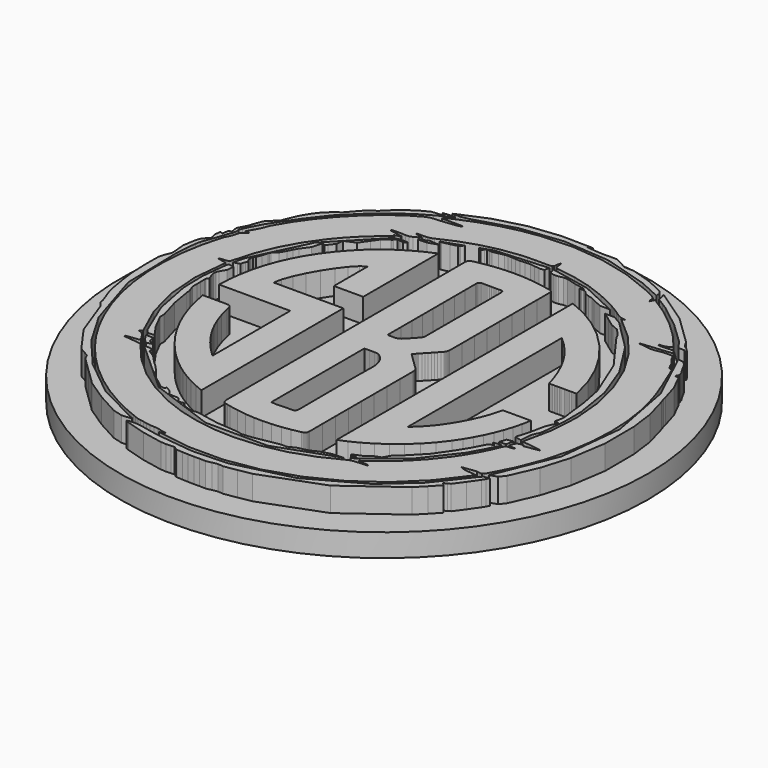
from build123d import *

# Parameters (mm, degrees)
F1_DEPTH = 6.35
F2_R     = 69.2543475659
F3_DEPTH = 5.9787


with BuildPart() as f1:
    # F0 (on Top) → F1 (new body)
    with BuildSketch(Plane.XY):
        Polygon((-53.894744, 22.908239), (-53.552094, 22.870532), (-53.702745, 22.720724), (-53.820196, 22.59796), (-53.920438, 22.503531), (-54.01946, 22.438724), (-54.511137, 22.177578), (-54.935004, 21.856725), (-55.241654, 21.440234), (-55.381676, 20.892172), (-55.539018, 20.122574), (-55.846118, 19.419855), (-56.213059, 18.74411), (-56.549927, 18.055435), (-56.558811, 18.035013), (-56.567988, 18.01469), (-56.576647, 17.994216), (-56.583978, 17.973339), (-57.93366, 12.75509), (-58.831826, 7.482319), (-59.26033, 2.149241), (-59.201027, -3.249927), (-58.642742, -8.709252), (-57.596428, -14.042956), (-56.061881, -19.254987), (-54.0389, -24.349291), (-51.927557, -28.577852), (-49.496927, -32.595965), (-46.750298, -36.402089), (-43.69096, -39.994683), (-40.114436, -43.566648), (-36.274813, -46.80741), (-32.171583, -49.710104), (-27.804238, -52.267862), (-26.956361, -52.705573), (-26.099857, -53.127266), (-25.236518, -53.535097), (-24.368136, -53.931223), (-23.491413, -54.307872), (-22.607228, -54.667956), (-21.723806, -55.029586), (-20.849373, -55.410875), (-20.009353, -55.707306), (-19.144427, -55.892246), (-18.271085, -56.038594), (-17.405819, -56.219251), (-16.292229, -56.395255), (-15.149927, -56.461127), (-14.007243, -56.572232), (-12.892512, -56.883938), (-12.830585, -56.900234), (-12.763886, -56.905008), (-12.695517, -56.906698), (-12.628578, -56.913744), (-12.367301, -56.964816), (-12.106249, -57.017054), (-11.845303, -57.069853), (-11.584347, -57.122603), (-11.587713, -57.15537), (-11.591076, -57.188135), (-11.594439, -57.220898), (-11.597801, -57.253658), (-11.928734, -57.347059), (-12.259666, -57.440462), (-12.590598, -57.533864), (-12.921531, -57.627265), (-3.92612, -58.999912), (4.953321, -58.997247), (13.71184, -57.601679), (22.344485, -54.795619), (30.484739, -50.726543), (37.749425, -45.57634), (44.157377, -39.359009), (49.727427, -32.088549), (48.575324, -31.855525), (47.412091, -31.775238), (46.272713, -31.608168), (45.192172, -31.114796), (46.13794, -30.983497), (47.055989, -30.856231), (47.955635, -30.732223), (48.846197, -30.610699), (48.887779, -30.611841), (48.930699, -30.622672), (48.974134, -30.637768), (49.017261, -30.651707), (49.765393, -30.809644), (50.276612, -30.760082), (50.673378, -30.454241), (51.078152, -29.843342), (54.054247, -24.024216), (56.375192, -17.995323), (58.020205, -11.747936), (58.968503, -5.273327), (59.22873, 0.416203), (58.961757, 6.052709), (58.137997, 11.625972), (56.727864, 17.125778), (55.668493, 20.197354), (54.482909, 23.229321), (53.242745, 26.244146), (52.019635, 29.264298), (52.002122, 29.309409), (51.981609, 29.356362), (51.958365, 29.394177), (51.932659, 29.411874), (51.064657, 29.805705), (50.585712, 30.514007), (50.246251, 31.335755), (49.7967, 32.069926), (49.438036, 32.464181), (49.099211, 32.881538), (48.802946, 33.322463), (48.571962, 33.787424), (48.390563, 34.123204), (48.168361, 34.334562), (47.902495, 34.442754), (47.590101, 34.469032), (46.876129, 34.461637), (46.15998, 34.448917), (45.452195, 34.397092), (44.763318, 34.272376), (43.812223, 34.094331), (42.872197, 34.039214), (41.935554, 34.091483), (40.994606, 34.235596), (40.624786, 34.298358), (40.252368, 34.347834), (39.878839, 34.391625), (39.505685, 34.437329), (39.512059, 34.477123), (39.518433, 34.516916), (39.524808, 34.556708), (39.531182, 34.5965), (41.526109, 34.793798), (43.531858, 34.992166), (45.559249, 35.192673), (47.619104, 35.396391), (47.283627, 35.905891), (46.911543, 36.227682), (46.488492, 36.38335), (46.000115, 36.394477), (45.425289, 36.341368), (44.84934, 36.2988), (44.272724, 36.265207), (43.695903, 36.239024), (43.482152, 36.244422), (43.267603, 36.269944), (43.052714, 36.304073), (42.837943, 36.335288), (42.841288, 36.400349), (42.84463, 36.46541), (42.847972, 36.530471), (42.851316, 36.595532), (43.26487, 36.628486), (43.68061, 36.655277), (44.088497, 36.704205), (44.478489, 36.803571), (44.83471, 36.969806), (45.172618, 37.187491), (45.502435, 37.427671), (45.83438, 37.661392), (42.344239, 41.715213), (38.50644, 45.35271), (34.347213, 48.614267), (29.892784, 51.540269), (29.752463, 51.253579), (29.616084, 50.974943), (29.469648, 50.675762), (29.29916, 50.327435), (29.21699, 50.599203), (29.147285, 50.806769), (29.103799, 50.968562), (29.100287, 51.103013), (29.097006, 51.603926), (28.919538, 51.979903), (28.602696, 52.266155), (28.181294, 52.497892), (27.565361, 52.804629), (26.958015, 53.129714), (26.350781, 53.45507), (25.735183, 53.762621), (18.04135, 56.778978), (10.161091, 58.67475), (2.092412, 59.437874), (-6.166684, 59.056286), (-10.964254, 58.309303), (-15.656692, 57.187953), (-20.247108, 55.702962), (-24.738616, 53.865052), (-25.267541, 53.614345), (-25.790317, 53.350051), (-26.310491, 53.080008), (-26.831613, 52.812057), (-26.817852, 52.744918), (-26.80409, 52.677778), (-26.790328, 52.610639), (-26.776566, 52.543499), (-25.438451, 52.543499), (-24.100338, 52.543499), (-22.762224, 52.543499), (-21.42411, 52.543499), (-21.418098, 52.486268), (-21.412086, 52.429036), (-21.406074, 52.371805), (-21.400062, 52.314573), (-21.62026, 52.230182), (-21.839894, 52.141978), (-22.061151, 52.064752), (-22.286215, 52.013292), (-23.097493, 51.900012), (-23.910133, 51.795955), (-24.723333, 51.695605), (-25.53629, 51.593444), (-26.701619, 51.499855), (-27.882364, 51.435191), (-29.017873, 51.283075), (-30.047497, 50.927126), (-33.006111, 49.211239), (-35.802971, 47.255592), (-38.458985, 45.102437), (-40.995064, 42.794026), (-44.239797, 39.457199), (-47.202585, 35.902312), (-49.871121, 32.121971), (-52.2331, 28.108778), (-52.474017, 27.581288), (-52.675767, 27.033016), (-52.874486, 26.482747), (-53.106312, 25.949271), (-53.49691, 25.205622), (-53.908284, 24.47105), (-54.329839, 23.738886), (-54.75098, 23.002461), (-54.476594, 22.972266), (-54.197047, 22.941505), align=None)
        Polygon((27.2512, -41.852579), (27.00565, -42.033669), (27.743861, -42.121858), (28.429116, -42.203717), (29.079067, -42.281358), (29.711364, -42.35689), (29.712691, -42.416879), (29.714018, -42.476867), (29.715345, -42.536853), (29.716672, -42.596836), (28.88839, -42.653866), (28.059968, -42.709619), (27.232278, -42.772253), (26.406187, -42.849926), (26.037522, -42.895701), (25.667588, -42.963613), (25.311078, -43.065674), (24.982685, -43.213893), (19.176028, -46.062258), (13.158344, -48.135491), (6.927866, -49.41758), (0.482827, -49.89251), (-4.796705, -49.676128), (-9.971315, -48.916145), (-15.037941, -47.607426), (-19.993525, -45.744831), (-25.847605, -42.729337), (-31.162645, -39.040641), (-35.944973, -34.683216), (-40.20092, -29.661531), (-40.36031, -29.524007), (-40.578779, -29.426093), (-40.82416, -29.360958), (-41.064287, -29.321769), (-42.062824, -29.203048), (-43.062604, -29.094213), (-44.062984, -28.990158), (-45.063322, -28.885772), (-45.06214, -28.811276), (-45.060958, -28.736782), (-45.059777, -28.662289), (-45.058595, -28.587799), (-44.167174, -28.473369), (-43.257312, -28.356571), (-42.310564, -28.235037), (-41.308488, -28.106399), (-41.939549, -27.178781), (-42.500453, -26.244784), (-43.230521, -25.475867), (-44.369073, -25.04349), (-44.117761, -24.922161), (-43.910628, -24.82216), (-43.724455, -24.732278), (-43.536022, -24.641305), (-47.204338, -16.509001), (-49.375405, -8.116536), (-50.028507, 0.543691), (-49.142923, 9.479286), (-49.740736, 9.612571), (-50.322394, 9.742254), (-50.89328, 9.869535), (-51.458782, 9.995616), (-51.455933, 10.053534), (-51.453083, 10.111454), (-51.450234, 10.169375), (-51.447385, 10.227296), (-51.021193, 10.266569), (-50.595058, 10.307081), (-50.168726, 10.343213), (-49.741944, 10.369347), (-49.360906, 10.431897), (-49.080568, 10.589504), (-48.883551, 10.856249), (-48.752476, 11.246214), (-47.256302, 16.484693), (-45.214036, 21.464582), (-42.628211, 26.185846), (-39.501358, 30.648448), (-37.370207, 33.190314), (-35.085473, 35.575523), (-32.648234, 37.804936), (-30.059567, 39.879415), (-29.953819, 39.960952), (-29.844605, 40.04854), (-29.726039, 40.145003), (-29.592239, 40.253168), (-29.72023, 40.351184), (-29.844419, 40.446286), (-29.971309, 40.543455), (-30.107402, 40.647671), (-29.66469, 40.744212), (-29.230733, 40.838844), (-28.802613, 40.932204), (-28.377412, 41.024927), (-28.385622, 41.073917), (-28.393834, 41.122907), (-28.402046, 41.171898), (-28.410257, 41.220889), (-29.23377, 41.36276), (-30.057282, 41.504632), (-30.880795, 41.646504), (-31.704308, 41.788375), (-31.701533, 41.878084), (-31.698759, 41.967792), (-31.695985, 42.0575), (-31.69321, 42.147208), (-30.801801, 42.159094), (-29.909831, 42.176968), (-29.019801, 42.174152), (-28.134215, 42.123972), (-27.212466, 42.168649), (-26.377849, 42.442721), (-25.575417, 42.879542), (-24.750225, 43.412471), (-25.279427, 43.524024), (-25.767695, 43.626949), (-26.228675, 43.724122), (-26.676011, 43.818417), (-26.669076, 43.897305), (-26.662143, 43.976192), (-26.65521, 44.055079), (-26.648278, 44.133966), (-26.087969, 44.125927), (-25.527256, 44.113998), (-24.968039, 44.116459), (-24.412221, 44.151594), (-23.912268, 44.211099), (-23.411263, 44.297058), (-22.924996, 44.424824), (-22.469257, 44.609747), (-18.094004, 46.575202), (-13.598431, 48.120862), (-8.978783, 49.225303), (-4.231307, 49.867098), (-2.351435, 49.979786), (-0.465641, 50.022926), (1.422662, 50.025733), (3.310066, 50.017425), (3.767894, 50.043651), (4.097828, 50.16109), (4.29529, 50.424461), (4.355707, 50.888485), (4.376168, 51.214146), (4.446648, 51.541813), (4.564673, 51.872625), (4.727772, 52.207721), (4.792361, 51.831979), (4.859096, 51.456411), (4.918399, 51.080242), (4.96069, 50.702699), (5.030724, 50.341252), (5.185447, 50.086549), (5.443388, 49.926178), (5.823078, 49.847728), (10.679519, 49.128423), (15.379953, 47.906545), (19.931014, 46.20619), (24.339338, 44.051457), (24.743284, 43.818445), (25.141426, 43.574784), (25.540139, 43.332301), (25.945801, 43.102824), (27.035716, 42.411504), (28.107481, 41.672918), (29.258058, 41.082585), (30.584411, 40.836027), (30.401637, 40.798394), (30.200121, 40.756904), (29.961122, 40.707695), (29.665896, 40.646909), (35.586093, 35.447769), (40.52766, 29.590565), (44.481023, 23.060562), (47.43661, 15.843024), (49.27682, 8.30704), (49.943364, 0.749937), (49.474362, -6.823395), (47.907937, -14.408067), (49.190972, -14.590432), (50.484455, -14.774283), (51.784902, -14.959125), (53.08883, -15.144463), (53.088266, -15.186543), (53.0877, -15.228623), (53.087131, -15.270704), (53.086561, -15.312787), (52.096496, -15.482123), (51.101336, -15.652332), (50.095993, -15.824284), (49.075375, -15.998846), (49.08686, -15.926091), (49.102766, -15.825361), (49.121619, -15.70598), (49.141945, -15.577275), (48.133566, -15.62736), (47.503419, -15.893381), (47.109267, -16.497726), (46.808871, -17.562782), (47.260903, -17.612535), (47.711791, -17.662161), (48.161919, -17.711702), (48.611667, -17.761199), (48.615249, -17.812088), (48.618831, -17.86298), (48.622413, -17.913872), (48.625995, -17.964761), (48.317951, -18.023875), (48.009416, -18.088914), (47.702405, -18.135663), (47.398934, -18.139907), (46.900688, -18.174059), (46.537381, -18.360776), (46.269401, -18.68179), (46.057132, -19.118837), (44.897135, -21.742328), (43.57913, -24.2788), (42.110618, -26.732794), (40.499095, -29.108851), (37.739898, -32.612989), (34.706408, -35.832701), (31.401055, -38.771979), (27.826271, -41.434814), (27.648334, -41.559714), (27.461036, -41.696782), align=None, mode=Mode.SUBTRACT)
    extrude(amount=F1_DEPTH)



with BuildPart() as f1b:
    # F0 (on Top) → F1, piece 2 (new body)
    with BuildSketch(Plane.XY):
        Polygon((-23.557972, -56.667024), (-20.983624, -56.456495), (-21.027435, -56.334423), (-21.068511, -56.269605), (-21.599318, -56.044114), (-22.134102, -55.828116), (-32.89666, -50.28208), (-42.303792, -42.668376), (-49.107039, -34.656127), (-54.409291, -25.571521), (-59.353599, -9.722321), (-59.759051, 6.873817), (-59.53478, 9.566515), (-59.278542, 12.254478), (-58.981128, 13.524759), (-58.554597, 14.772868), (-58.100843, 15.961257), (-57.638936, 17.147156), (-57.161549, 18.565277), (-56.695764, 19.987615), (-56.323233, 20.80818), (-56.188742, 21.543502), (-56.264343, 22.578405), (-55.892638, 23.502227), (-54.861049, 25.614464), (-53.761027, 27.682268), (-51.581304, 31.027557), (-49.338339, 34.333481), (-45.19724, 39.663199), (-40.426986, 44.431183), (-37.750052, 46.697301), (-34.962966, 48.827415), (-32.131191, 50.783843), (-29.14249, 52.504093), (-27.577881, 53.338479), (-26.025989, 54.198413), (-25.604141, 54.415175), (-25.178651, 54.625221), (-25.220773, 54.717845), (-25.262896, 54.81047), (-26.70897, 54.666379), (-28.316584, 54.506193), (-27.740603, 54.181419), (-27.310778, 53.939055), (-27.409249, 53.820094), (-27.474608, 53.767608), (-27.784656, 53.726993), (-28.092078, 53.724786), (-30.440205, 53.527545), (-32.546034, 52.430053), (-36.037655, 50.095797), (-39.030701, 47.149577), (-39.115339, 47.052628), (-39.218443, 46.971677), (-40.328263, 46.249349), (-41.353457, 45.444293), (-42.965552, 43.664404), (-44.531609, 41.8385), (-44.74819, 41.6963), (-44.984405, 41.566727), (-46.090969, 40.713213), (-47.140187, 39.80169), (-48.202085, 38.66073), (-49.116683, 37.411444), (-50.438933, 35.191453), (-51.447132, 32.859573), (-52.05853, 31.354426), (-53.092196, 30.284025), (-54.660096, 28.675897), (-55.429453, 26.592064), (-55.86782, 25.264497), (-56.520848, 24.037953), (-57.056487, 23.03322), (-57.006138, 21.926243), (-56.904983, 21.50058), (-56.830449, 21.003271), (-57.206795, 21.031749), (-57.532473, 21.056393), (-57.701971, 20.122253), (-57.868653, 19.203634), (-58.239806, 19.404503), (-58.607815, 19.60367), (-58.760095, 17.98817), (-58.4368, 16.478268), (-58.470571, 16.223824), (-58.64595, 15.972918), (-59.790363, 14.842256), (-60.302731, 13.319484), (-60.818445, 10.189846), (-60.529467, 7.026065), (-60.483765, 6.4425), (-60.602903, 5.852072), (-61.191715, 4.436885), (-61.575597, 3.024849), (-61.620538, -1.335632), (-61.439589, -5.690187), (-60.984896, -9.386406), (-60.363051, -13.067747), (-60.067735, -14.45397), (-59.668727, -15.815864), (-59.038981, -17.495635), (-58.449988, -19.18468), (-58.177272, -20.359127), (-57.403924, -21.284483), (-57.194328, -21.533808), (-57.055155, -21.87764), (-55.296834, -26.668185), (-53.532068, -31.456328), (-53.273701, -31.958692), (-52.94849, -32.430537), (-51.073238, -35.061154), (-49.192199, -37.687659), (-48.807211, -38.2953), (-48.351667, -38.796354), (-46.978535, -39.594287), (-45.732757, -40.251703), (-45.369672, -41.100346), (-44.984701, -41.732657), (-41.536929, -45.089285), (-38.068296, -48.424853), (-37.675974, -48.850171), (-37.261583, -49.242976), (-31.835895, -52.859375), (-26.105752, -55.987728), align=None)
    extrude(amount=F1_DEPTH)


with BuildPart() as f1c:
    # F0 (on Top) → F1, piece 3 (new body)
    with BuildSketch(Plane.XY):
        Polygon((-20.862949, -57.709294), (-21.322122, -57.865137), (-20.819133, -58.114152), (-20.451415, -58.27186), (-15.225602, -59.814886), (-9.883311, -60.874621), (-8.522522, -60.943843), (-7.152539, -60.909702), (-6.267753, -60.823076), (-5.555672, -61.365519), (-5.362294, -61.467547), (-5.075319, -61.504595), (-3.569156, -61.614722), (-2.061716, -61.694231), (-0.55084, -61.718491), (0.960288, -61.699148), (2.596548, -61.75692), (4.006817, -61.461807), (5.438796, -61.192681), (6.755383, -61.338057), (10.22207, -60.792742), (13.667542, -60.157757), (29.337882, -54.284954), (42.835382, -44.388625), (45.123411, -42.053715), (47.36026, -39.665417), (46.93133, -39.265031), (46.611583, -38.96656), (47.492808, -38.629217), (48.171198, -38.19841), (50.088571, -35.593201), (51.939345, -32.937641), (52.41702, -32.142401), (52.842936, -31.35027), (51.315648, -31.619295), (50.322907, -32.767716), (43.686349, -41.215457), (35.653059, -48.326773), (21.960413, -55.943711), (6.732182, -59.684009), (-2.491179, -60.017724), (-11.658309, -58.935233), (-14.184362, -58.484278), (-16.690356, -57.960276), (-18.618491, -57.613667), (-20.561451, -57.631194), align=None)
    extrude(amount=F1_DEPTH)


with BuildPart() as f1d:
    # F0 (on Top) → F1, piece 4 (new body)
    with BuildSketch(Plane.XY):
        Polygon((-33.736447, 8.796554), (-36.029206, 8.796554), (-35.599738, 10.903615), (-34.67961, 13.426045), (-33.385904, 16.1695), (-31.835698, 18.939641), (-30.146071, 21.542125), (-28.434104, 23.782611), (-26.816876, 25.466758), (-25.411465, 26.400225), (-25.411465, 25.004505), (-25.411465, 23.612775), (-25.411465, 22.224478), (-25.411465, 20.839057), (-25.411465, 19.455954), (-25.411465, 18.074612), (-25.411465, 16.694474), (-25.411465, 15.314982), (-24.429774, 15.314982), (-23.458259, 15.314982), (-22.494924, 15.314982), (-21.537775, 15.314982), (-20.584816, 15.314982), (-19.634051, 15.314982), (-18.683485, 15.314982), (-17.731124, 15.314982), (-17.731124, 18.387662), (-17.731124, 21.456793), (-17.731124, 24.524913), (-17.731124, 27.594557), (-17.731124, 30.668265), (-17.731124, 33.748573), (-17.731124, 36.838018), (-17.731124, 39.939138), (-20.616204, 38.636574), (-23.350906, 37.162043), (-25.937167, 35.515679), (-28.376922, 33.697616), (-30.672109, 31.707987), (-32.824662, 29.546926), (-34.83652, 27.214567), (-36.709618, 24.711041), (-38.434681, 22.02913), (-39.926542, 19.271903), (-41.189096, 16.438769), (-42.226235, 13.529137), (-43.041854, 10.542417), (-43.639844, 7.478019), (-44.024101, 4.335351), (-44.198516, 1.113824), (-41.836362, 1.113824), (-39.485592, 1.113824), (-37.144407, 1.113824), (-34.811005, 1.113824), (-32.483585, 1.113824), (-30.160348, 1.113824), (-27.839492, 1.113824), (-25.519216, 1.113824), (-25.519216, -2.072995), (-25.519216, -5.25166), (-25.519216, -8.425142), (-25.519216, -11.596415), (-25.519216, -14.768451), (-25.519216, -17.944225), (-25.519216, -21.126709), (-25.519216, -24.318877), (-25.612239, -24.244925), (-25.696912, -24.178771), (-25.774129, -24.118992), (-25.844786, -24.064161), (-25.909775, -24.012854), (-25.96999, -23.963646), (-26.026327, -23.915112), (-26.07968, -23.865828), (-27.888828, -22.017165), (-29.550104, -20.083978), (-31.056776, -18.062274), (-32.40211, -15.948063), (-33.579374, -13.737351), (-34.581837, -11.426147), (-35.402766, -9.010461), (-36.035428, -6.486298), (-36.16723, -5.878229), (-36.292764, -5.421886), (-36.438293, -5.095495), (-36.630077, -4.87728), (-36.894378, -4.745463), (-37.257456, -4.67827), (-37.745573, -4.653923), (-38.38499, -4.650646), (-39.060005, -4.650646), (-39.735831, -4.650646), (-40.41328, -4.650646), (-41.093165, -4.650646), (-41.776296, -4.650646), (-42.463485, -4.650646), (-43.155543, -4.650646), (-43.853284, -4.650646), (-43.210888, -7.881584), (-42.362655, -11.002535), (-41.307109, -14.014157), (-40.042773, -16.91711), (-38.56817, -19.71205), (-36.881823, -22.399636), (-34.982256, -24.980526), (-32.867993, -27.455377), (-31.249194, -29.125236), (-29.555003, -30.686767), (-27.784107, -32.139477), (-25.935194, -33.482873), (-24.006949, -34.716458), (-21.998061, -35.83974), (-19.907215, -36.852224), (-17.733099, -37.753415), (-17.733099, -31.915893), (-17.733099, -26.089595), (-17.733099, -20.27159), (-17.733099, -14.45895), (-17.733099, -8.648745), (-17.733099, -2.838045), (-17.733099, 2.976078), (-17.733099, 8.796554), (-20.02275, 8.796554), (-22.309253, 8.796554), (-24.593804, 8.796554), (-26.877601, 8.796554), (-29.161842, 8.796554), (-31.447725, 8.796554), align=None)
    extrude(amount=F1_DEPTH)


with BuildPart() as f1e:
    # F0 (on Top) → F1, piece 5 (new body)
    with BuildSketch(Plane.XY):
        Polygon((6.464847, 1.12141), (5.901451, 1.677647), (6.038698, 1.831583), (6.168609, 1.978002), (6.292403, 2.117817), (6.4113, 2.251941), (6.52652, 2.381288), (6.639283, 2.506773), (6.750808, 2.629307), (6.862315, 2.749806), (7.310925, 3.227843), (7.761012, 3.704562), (8.211497, 4.180918), (8.661299, 4.657866), (9.109339, 5.136363), (9.554537, 5.617365), (9.995814, 6.101826), (10.432088, 6.590704), (10.533546, 6.717648), (10.627156, 6.858732), (10.711182, 7.010806), (10.783891, 7.170725), (10.843548, 7.335341), (10.888417, 7.501505), (10.916764, 7.666072), (10.926856, 7.825894), (10.935252, 11.916081), (10.94091, 16.006275), (10.944662, 20.096473), (10.947342, 24.186674), (10.949785, 28.276877), (10.952822, 32.367079), (10.957288, 36.457279), (10.964015, 40.547475), (10.954938, 40.765576), (10.925132, 40.950501), (10.872148, 41.105679), (10.793539, 41.234541), (10.686856, 41.340516), (10.549648, 41.427032), (10.379469, 41.49752), (10.173869, 41.555408), (7.665464, 42.073734), (5.157192, 42.447949), (2.648761, 42.677514), (0.13988, 42.761891), (-2.36974, 42.700541), (-4.880392, 42.492925), (-7.392366, 42.138506), (-9.905953, 41.636743), (-10.208514, 41.555208), (-10.459332, 41.45746), (-10.661904, 41.337427), (-10.819728, 41.189037), (-10.936301, 41.006218), (-11.01512, 40.7829), (-11.059684, 40.513011), (-11.073488, 40.190479), (-11.063852, 30.565171), (-11.057078, 20.939861), (-11.052678, 11.314547), (-11.050164, 1.689232), (-11.049045, -7.936084), (-11.048835, -17.561402), (-11.049045, -27.186721), (-11.049185, -36.81204), (-11.044265, -37.570705), (-11.011975, -38.143005), (-10.926008, -38.563104), (-10.760056, -38.865163), (-10.487813, -39.083343), (-10.082972, -39.251806), (-9.519224, -39.404714), (-8.770264, -39.576227), (-6.431995, -40.034659), (-4.095803, -40.353575), (-1.761346, -40.534727), (0.571719, -40.579867), (2.903733, -40.490748), (5.23504, -40.269122), (7.565981, -39.916742), (9.896899, -39.435359), (10.171489, -39.360036), (10.40068, -39.269784), (10.587136, -39.158926), (10.733526, -39.021789), (10.842514, -38.852695), (10.916768, -38.645969), (10.958954, -38.395937), (10.971738, -38.096922), (10.960281, -33.862256), (10.952446, -29.627579), (10.947882, -25.392892), (10.946238, -21.1582), (10.947162, -16.923505), (10.950302, -12.688808), (10.955308, -8.454114), (10.961828, -4.219425), (10.953871, -3.985278), (10.928234, -3.766223), (10.883504, -3.560369), (10.818268, -3.365826), (10.731113, -3.180703), (10.620626, -3.003108), (10.485393, -2.831151), (10.324001, -2.662941), (9.772742, -2.133582), (9.223615, -1.600575), (8.675329, -1.063857), (8.126598, -0.523364), (7.576132, 0.020969), (7.022645, 0.569206), align=None)
        Polygon((-3.236573, -6.26905), (-3.236573, -2.430164), (-2.780744, -2.429155), (-2.331051, -2.426884), (-1.886653, -2.424488), (-1.446713, -2.423106), (-1.010393, -2.423873), (-0.576855, -2.427927), (-0.14526, -2.436406), (0.285229, -2.450446), (0.378031, -2.464775), (0.47079, -2.497849), (0.563196, -2.545908), (0.654939, -2.605196), (0.745708, -2.671953), (0.835193, -2.74242), (0.923082, -2.812839), (1.009067, -2.879452), (1.627245, -3.408111), (2.127433, -3.977333), (2.519962, -4.587617), (2.815162, -5.239463), (3.023363, -5.933368), (3.154894, -6.669831), (3.220085, -7.449352), (3.229267, -8.272428), (3.185505, -11.203349), (3.1589, -14.134596), (3.146455, -17.066098), (3.145175, -19.997784), (3.152062, -22.929586), (3.164121, -25.861431), (3.178356, -28.79325), (3.19177, -31.724973), (3.181132, -32.039702), (3.142692, -32.303425), (3.070853, -32.518464), (2.960016, -32.687144), (2.804584, -32.811789), (2.598959, -32.894722), (2.337543, -32.938268), (2.014737, -32.94475), (1.528425, -32.936564), (1.041757, -32.940764), (0.554803, -32.954204), (0.067633, -32.973742), (-0.419684, -32.996233), (-0.907078, -33.018533), (-1.394479, -33.037497), (-1.881816, -33.049983), (-2.045788, -33.04848), (-2.210373, -33.03952), (-2.376032, -33.024701), (-2.543227, -33.005623), (-2.712417, -32.983885), (-2.884064, -32.961087), (-3.058629, -32.938829), (-3.236573, -32.918711), (-3.236573, -29.116605), (-3.236573, -25.317326), (-3.236573, -21.518179), (-3.236573, -17.716472), (-3.236573, -13.909511), (-3.236573, -10.094601), align=None, mode=Mode.SUBTRACT)
        Polygon((-2.986232, 5.218105), (-3.284126, 5.220192), (-3.284126, 5.377997), (-3.284126, 5.523727), (-3.284127, 5.659108), (-3.284128, 5.785865), (-3.284128, 5.905722), (-3.284128, 6.020405), (-3.284127, 6.131637), (-3.284126, 6.241145), (-3.283763, 9.727103), (-3.283065, 13.213061), (-3.282536, 16.699018), (-3.282681, 20.184974), (-3.284006, 23.670927), (-3.287014, 27.156875), (-3.292212, 30.642818), (-3.300103, 34.128754), (-3.291352, 34.402622), (-3.259812, 34.635741), (-3.199936, 34.82899), (-3.106175, 34.983245), (-2.972982, 35.099385), (-2.794808, 35.178286), (-2.566105, 35.220828), (-2.281326, 35.227886), (-1.693867, 35.211356), (-1.106198, 35.200096), (-0.518371, 35.193424), (0.069565, 35.190656), (0.657561, 35.191111), (1.245566, 35.194105), (1.833531, 35.198956), (2.421406, 35.20498), (2.619293, 35.196665), (2.782696, 35.16595), (2.914099, 35.111215), (3.015982, 35.030843), (3.090828, 34.923213), (3.141119, 34.786707), (3.169337, 34.619706), (3.177964, 34.420589), (3.17408, 31.312105), (3.171836, 28.203618), (3.170611, 25.09513), (3.169787, 21.986641), (3.168745, 18.878154), (3.166866, 15.769669), (3.163531, 12.661187), (3.158122, 9.55271), (3.150631, 9.432519), (3.129509, 9.308728), (3.096029, 9.183723), (3.051463, 9.059887), (2.997085, 8.939604), (2.934168, 8.825259), (2.863985, 8.719235), (2.78781, 8.623915), (2.456205, 8.250661), (2.122094, 7.87946), (1.785248, 7.510648), (1.445438, 7.144563), (1.102432, 6.78154), (0.756003, 6.421915), (0.40592, 6.066025), (0.051954, 5.714205), (-0.054675, 5.620959), (-0.174629, 5.536234), (-0.305191, 5.460652), (-0.443646, 5.394833), (-0.587278, 5.339397), (-0.733369, 5.294965), (-0.879204, 5.262158), (-1.022066, 5.241597), (-1.294077, 5.219631), (-1.567903, 5.207327), (-1.844174, 5.20261), (-2.123515, 5.203405), (-2.406553, 5.207636), (-2.693917, 5.213228), align=None, mode=Mode.SUBTRACT)
    extrude(amount=F1_DEPTH)


with BuildPart() as f1f:
    # F0 (on Top) → F1, piece 6 (new body)
    with BuildSketch(Plane.XY):
        Polygon((21.864423, 37.964377), (17.664683, 39.813198), (17.664683, 30.126865), (17.664683, 20.441933), (17.664683, 10.75787), (17.664683, 1.074144), (17.664683, -8.609775), (17.664683, -18.29442), (17.664683, -27.980322), (17.664683, -37.668013), (19.909589, -36.73233), (22.291281, -35.528253), (24.753906, -34.065067), (27.241616, -32.352056), (29.698558, -30.398505), (32.068883, -28.213698), (34.296739, -25.806919), (36.326277, -23.187454), (37.627762, -21.230718), (38.815132, -19.227327), (39.886515, -17.175685), (40.840041, -15.074195), (41.673836, -12.921261), (42.386029, -10.715286), (42.974749, -8.454673), (43.438123, -6.137825), (42.495556, -6.137825), (41.561291, -6.137825), (40.633588, -6.137825), (39.710706, -6.137825), (38.790904, -6.137825), (37.872443, -6.137825), (36.953582, -6.137825), (36.032581, -6.137825), (35.729823, -7.434863), (35.369418, -8.706535), (34.954474, -9.954063), (34.4881, -11.178674), (33.973404, -12.381591), (33.413494, -13.564039), (32.811479, -14.727243), (32.170468, -15.872426), (31.494304, -16.995532), (30.780529, -18.092552), (30.024495, -19.161877), (29.221552, -20.2019), (28.367051, -21.211013), (27.456345, -22.187609), (26.484783, -23.130079), (25.447717, -24.036816), (25.447717, -17.694016), (25.447717, -11.370324), (25.447717, -5.060423), (25.447717, 1.241006), (25.447717, 7.539283), (25.447717, 13.839726), (25.447717, 20.147654), (25.447717, 26.468385), (27.426691, 24.650066), (29.190219, 22.719249), (30.7522, 20.681335), (32.126534, 18.541723), (33.327118, 16.305813), (34.367854, 13.979005), (35.262639, 11.566699), (36.025373, 9.074294), (36.48929, 9.074295), (36.948152, 9.074295), (37.402681, 9.074296), (37.8536, 9.074297), (38.30163, 9.074298), (38.747494, 9.074299), (39.191914, 9.0743), (39.635611, 9.0743), (40.083895, 9.0743), (40.532452, 9.074299), (40.981557, 9.074298), (41.431484, 9.074297), (41.882506, 9.074296), (42.334897, 9.074295), (42.788932, 9.074295), (43.244883, 9.074294), (41.79085, 14.586447), (39.626882, 19.714017), (36.858878, 24.410755), (33.592733, 28.630411), (29.934344, 32.326733), (25.989609, 35.453472), align=None)
    extrude(amount=F1_DEPTH)


with BuildPart() as f1g:
    # F0 (on Top) → F1, piece 7 (new body)
    with BuildSketch(Plane.XY):
        Polygon((26.058862, 54.534486), (28.863066, 53.226419), (28.751201, 54.390916), (27.941576, 55.309874), (23.764332, 57.246764), (19.391499, 58.642214), (18.299599, 58.963172), (17.226407, 58.972074), (15.725739, 59.033058), (14.549978, 59.770493), (12.571856, 60.799212), (10.36344, 60.835997), (9.185086, 60.782508), (7.995893, 60.842462), (6.62573, 60.947066), (5.256943, 61.076644), (4.777556, 61.123488), (4.298413, 61.173033), (4.304643, 61.262942), (4.310874, 61.35285), (4.901981, 61.483928), (5.493084, 61.615005), (-2.753773, 61.75692), (-10.951599, 60.859746), (-18.928055, 58.776703), (-26.522791, 55.524859), (-24.377425, 55.508618), (-22.354109, 55.869764), (-11.766927, 59.015191), (-0.808241, 60.280861), (11.472391, 59.332283), (23.269296, 55.783727), align=None)
    extrude(amount=F1_DEPTH)


with BuildPart() as f1h:
    # F0 (on Top) → F1, piece 8 (new body)
    with BuildSketch(Plane.XY):
        Polygon((48.817511, 37.536433), (49.061568, 37.163471), (49.231695, 37.30165), (49.40183, 37.439831), (48.918694, 38.134728), (48.360378, 38.664281), (47.363953, 39.379959), (46.777252, 40.425879), (46.587384, 40.769105), (46.330021, 41.080086), (38.871331, 48.294987), (30.298204, 54.142139), (30.020717, 54.267088), (29.773505, 54.358405), (30.036552, 53.627555), (30.156859, 52.937731), (30.259491, 52.386728), (30.665048, 52.054623), (32.248506, 51.072472), (33.816147, 50.064948), (39.860128, 45.334948), (45.411267, 40.034648), (45.629169, 39.76196), (45.783191, 39.447584), (46.831576, 37.959504), (48.567251, 37.918878), align=None)
    extrude(amount=F1_DEPTH)


with BuildPart() as f1i:
    # F0 (on Top) → F1, piece 9 (new body)
    with BuildSketch(Plane.XY):
        Polygon((58.242545, -14.621251), (51.842416, -30.384886), (53.737937, -29.729755), (54.879795, -28.299128), (57.964982, -21.265941), (60.166083, -13.917267), (61.620538, -4.533526), (61.574595, 4.962065), (60.777347, 11.163651), (59.093979, 17.191664), (58.706575, 18.194659), (58.470224, 19.221446), (57.157235, 23.617306), (55.097218, 27.74092), (54.645465, 27.74092), (54.046225, 27.74092), (54.581218, 28.711488), (54.243839, 29.651277), (53.30229, 31.212763), (52.465422, 32.823741), (51.45793, 33.785429), (50.052591, 33.960469), (56.697076, 19.79403), (60.046772, 2.185141), align=None)
    extrude(amount=F1_DEPTH)


with BuildPart() as f1j:
    # F0 (on Top) → F1, piece 10 (new body)
    with BuildSketch(Plane.XY):
        Polygon((22.603122, 42.519902), (25.226658, 42.507244), (15.633627, 46.978044), (5.250349, 49.09015), (5.486447, 47.674723), (6.722479, 47.301649), (7.29003, 47.326135), (7.862156, 47.40683), (9.003466, 47.628736), (10.031465, 47.59731), (12.55082, 46.902054), (15.095712, 46.404631), (15.349844, 46.296388), (15.681737, 46.124263), (15.095492, 45.967349), (14.62242, 45.840726), (15.175282, 45.788894), (15.701557, 45.812242), (16.064811, 45.762926), (16.304472, 45.621477), (17.035412, 44.803203), (18.049968, 44.431625), (19.208914, 44.125914), (20.182389, 43.647725), align=None)
    extrude(amount=F1_DEPTH)


with BuildPart() as f1k:
    # F0 (on Top) → F1, piece 11 (new body)
    with BuildSketch(Plane.XY):
        Polygon((28.152583, 40.404254), (25.656381, 40.440839), (27.765048, 38.890716), (29.845231, 37.370102), (30.075541, 37.238174), (30.324591, 37.180005), (31.855438, 36.526839), (32.987495, 35.315217), (33.374139, 34.862896), (33.657761, 34.466856), (34.072378, 33.663234), (34.500882, 33.010487), (41.383707, 23.554081), (45.784841, 12.716797), (46.906707, 7.011545), (47.600988, 1.240125), (47.838911, -0.246063), (47.765637, -1.744768), (47.583838, -2.461274), (47.408616, -3.220409), (48.008199, -3.353239), (48.627026, -3.49034), (48.440346, -3.793985), (48.29306, -4.058021), (47.737006, -5.190029), (47.241633, -6.344004), (46.522108, -9.864737), (45.548281, -13.328392), (45.495054, -13.531755), (45.471606, -13.747988), (46.273554, -13.94629), (47.20919, -14.177646), (47.278303, -12.884595), (47.36382, -11.672944), (47.426812, -11.04718), (47.633529, -10.516024), (48.301453, -9.177315), (48.533017, -7.69495), (49.041664, -2.17147), (49.020203, 3.379248), (47.457788, 12.967316), (44.074654, 22.06107), (38.143842, 31.364077), (30.326599, 39.169612), align=None)
    extrude(amount=F1_DEPTH)


with BuildPart() as f1l:
    # F0 (on Top) → F1, piece 12 (new body)
    with BuildSketch(Plane.XY):
        Polygon((46.186566, -16.556268), (46.401562, -15.55054), (44.80628, -15.793984), (44.233453, -17.523424), (45.069944, -17.523424), (45.979817, -17.523424), align=None)
    extrude(amount=F1_DEPTH)


with BuildPart() as f1m:
    # F0 (on Top) → F1, piece 13 (new body)
    with BuildSketch(Plane.XY):
        Polygon((25.204586, -41.494643), (24.760193, -41.72012), (24.804462, -41.858898), (24.848732, -41.997676), (25.541024, -41.811693), (26.186311, -41.551303), (34.970122, -34.50809), (41.87079, -25.62156), (43.808357, -22.09867), (45.64432, -18.514327), (45.535766, -18.408014), (45.427212, -18.301701), (44.530129, -18.425666), (43.481627, -18.570552), (43.969282, -18.971118), (44.461513, -19.375444), (43.318546, -19.617713), (42.771482, -20.484996), (41.255437, -23.357154), (39.560076, -26.102895), (36.637422, -30.339916), (33.05794, -34.079017), (31.00556, -35.797634), (29.751341, -37.940555), (28.752153, -38.28637), (27.959953, -38.621317), (26.605188, -39.741732), (24.94412, -40.371903), (24.596134, -40.545732), (24.122316, -40.930999), (24.963591, -41.020358), (25.646438, -41.092881), (25.647708, -41.181023), (25.648978, -41.269166), align=None)
    extrude(amount=F1_DEPTH)


with BuildPart() as f1n:
    # F0 (on Top) → F1, piece 14 (new body)
    with BuildSketch(Plane.XY):
        Polygon((-34.881741, -32.14142), (-36.951181, -30.778583), (-36.713742, -30.037114), (-37.375089, -29.720308), (-38.265825, -29.64468), (-39.297351, -29.601876), (-25.465141, -42.090284), (-8.074832, -48.463906), (8.26731, -48.473567), (23.668052, -42.954746), (20.805345, -43.131934), (18.05406, -43.912196), (16.911474, -44.490948), (15.759639, -44.961419), (13.637269, -45.400776), (11.687348, -46.32887), (11.535546, -46.374896), (11.358695, -46.378778), (10.580361, -46.371471), (9.811893, -46.419048), (6.758891, -46.978302), (3.70448, -47.52822), (2.229844, -47.698198), (0.842567, -47.806568), (-0.006072, -47.590523), (-0.794332, -47.456277), (-6.324553, -47.008693), (-11.770293, -45.946939), (-12.193465, -45.901538), (-12.629907, -45.922191), (-13.299486, -46.000292), (-13.953121, -46.004694), (-14.852289, -45.76996), (-15.71904, -45.425724), (-16.378253, -45.037649), (-17.013256, -44.596464), (-16.961351, -44.467602), (-16.909445, -44.338739), (-17.528397, -44.505915), (-18.145227, -44.67252), (-19.266319, -43.338775), (-21.06444, -43.268947), (-21.539074, -43.273809), (-21.854853, -43.141908), (-22.727317, -41.979426), (-23.992397, -41.277947), (-24.173195, -41.605602), (-24.278566, -41.796556), (-25.130858, -41.656044), (-25.913331, -41.527043), (-25.916839, -41.290834), (-25.968374, -41.111919), (-27.158762, -40.184419), (-28.361537, -39.272566), (-28.699562, -39.060623), (-28.994258, -38.818486), (-29.880619, -37.568362), (-30.802237, -36.350492), (-31.973185, -35.087112), (-33.236324, -33.917211), align=None)
    extrude(amount=F1_DEPTH)


with BuildPart() as f1o:
    # F0 (on Top) → F1, piece 15 (new body)
    with BuildSketch(Plane.XY):
        Polygon((-42.278304, -24.755159), (-40.520466, -24.640436), (-41.569781, -23.128019), (-42.57384, -21.731421), (-43.655608, -19.651927), (-44.72792, -17.570488), (-44.735551, -17.454485), (-44.715327, -17.312937), (-44.699045, -16.625562), (-44.775039, -15.967933), (-46.246611, -10.896915), (-47.142317, -5.6939), (-47.18085, -4.950739), (-47.376671, -4.320376), (-47.89438, -2.910619), (-47.887576, -1.440477), (-47.911944, -0.251566), (-47.930244, 0.937447), (-47.940695, 1.277769), (-47.888797, 1.498882), (-47.477691, 2.039067), (-47.719347, 2.664029), (-48.013107, 3.507751), (-48.200862, 4.366168), (-48.162039, 5.08924), (-47.883956, 5.652574), (-46.974275, 7.253846), (-46.772483, 9.08872), (-47.54632, 9.204687), (-48.281453, 9.314853), (-48.385944, 8.878273), (-48.470747, 8.488063), (-49.190906, 2.052097), (-49.026491, -4.423514), (-47.100639, -14.29507), (-43.199975, -23.563111), align=None)
    extrude(amount=F1_DEPTH)


with BuildPart() as f1p:
    # F0 (on Top) → F1, piece 16 (new body)
    with BuildSketch(Plane.XY):
        Polygon((-39.989876, -25.754144), (-41.92662, -25.675983), (-41.368252, -26.551722), (-40.822577, -27.395874), (-39.80903, -28.392318), (-38.209389, -27.948045), (-38.991467, -27.579586), (-39.683399, -27.253606), align=None)
    extrude(amount=F1_DEPTH)


with BuildPart() as f1q:
    # F0 (on Top) → F1, piece 17 (new body)
    with BuildSketch(Plane.XY):
        Polygon((-36.658696, 30.280495), (-36.4652623271, 32.0726277132), (-40.491285, 27.8959), (-47.350262, 13.536185), (-47.713474, 12.126782), (-48.067877, 10.602595), (-47.164152, 10.840007), (-46.52828, 11.007055), (-46.367353, 11.681853), (-46.165368, 12.180392), (-45.881443, 12.8975), (-46.331336, 13.27872), (-46.39979, 14.222371), (-46.464633, 15.116229), (-46.152356, 15.22557), (-45.914823, 15.393497), (-45.427997, 16.739702), (-44.971695, 18.097968), (-44.877021, 18.470791), (-44.721777, 18.747817), (-43.477964, 19.94769), (-42.620326, 21.439502), (-42.050766, 22.650155), (-41.375931, 23.775327), (-39.761304, 25.955352), (-39.006354, 28.633933), (-38.311146, 28.376908), (-37.770542, 28.828681), align=None)
    extrude(amount=F1_DEPTH)


with BuildPart() as f1r:
    # F0 (on Top) → F1, piece 18 (new body)
    with BuildSketch(Plane.XY):
        Polygon((-29.438526, 39.362394), (-36.4445557504, 32.0941093937), (-33.705869, 33.26087), (-32.049205, 35.642896), (-30.819844, 37.383069), (-29.122399, 38.632944), (-28.895818, 38.767843), (-28.745992, 38.940798), (-28.133565, 39.588544), (-27.345973, 39.396074), (-26.482481, 39.311915), (-25.726073, 39.886902), (-27.644781, 39.991332), align=None)
    extrude(amount=F1_DEPTH)


with BuildPart() as f1s:
    # F0 (on Top) → F1, piece 19 (new body)
    with BuildSketch(Plane.XY):
        Polygon((-22.502132, 42.274403), (-20.143548, 43.053363), (-22.648912, 43.246821), (-24.86959, 42.170483), align=None)
    extrude(amount=F1_DEPTH)


with BuildPart() as f1t:
    # F0 (on Top) → F1, piece 20 (new body)
    with BuildSketch(Plane.XY):
        Polygon((3.802637, 47.78116), (4.04751, 49.122143), (-9.605247, 48.156894), (-12.6959831953, 47.0778939621), (-12.445207, 47.127642), (-11.897495, 46.537618), (-11.416497, 47.150924), (-11.091859, 47.564861), (-10.23172, 47.400531), (-9.519294, 47.356279), (-8.134097, 47.651132), (-6.749605, 47.955126), (-5.854403, 48.008228), (-4.948936, 47.973654), (-3.779749, 47.891054), (-2.611901, 47.840178), (-1.332026, 47.94646), (-0.055445, 48.020833), (1.238112, 47.856974), (2.532722, 47.667223), align=None)
    extrude(amount=F1_DEPTH)


with BuildPart() as f1u:
    # F0 (on Top) → F1, piece 21 (new body)
    with BuildSketch(Plane.XY):
        Polygon((-15.769809, 45.928148), (-15.5715056404, 46.0740267177), (-20.883575, 44.219542), (-20.573544, 44.208649), (-20.30893, 44.224437), (-18.456715, 44.626017), (-16.609963, 45.051076), (-16.438357, 45.206451), (-16.274032, 45.423722), align=None)
    extrude(amount=F1_DEPTH)


with BuildPart() as f1_1:
    add(f1.part)

    add(f1b.part)  # F3 merges F1b

    add(f1c.part)  # F3 merges F1c

    add(f1d.part)  # F3 merges F1d

    add(f1e.part)  # F3 merges F1e

    add(f1f.part)  # F3 merges F1f

    add(f1g.part)  # F3 merges F1g

    add(f1h.part)  # F3 merges F1h

    add(f1i.part)  # F3 merges F1i

    add(f1j.part)  # F3 merges F1j

    add(f1k.part)  # F3 merges F1k

    add(f1l.part)  # F3 merges F1l

    add(f1m.part)  # F3 merges F1m

    add(f1n.part)  # F3 merges F1n

    add(f1o.part)  # F3 merges F1o

    add(f1p.part)  # F3 merges F1p

    add(f1q.part)  # F3 merges F1q

    add(f1r.part)  # F3 merges F1r

    add(f1s.part)  # F3 merges F1s

    add(f1t.part)  # F3 merges F1t

    add(f1u.part)  # F3 merges F1u
    # F2 (on Top) → F3 (join)
    with BuildSketch(Plane.XY):
        Circle(F2_R)
    extrude(amount=-F3_DEPTH)


solid = f1_1.part
